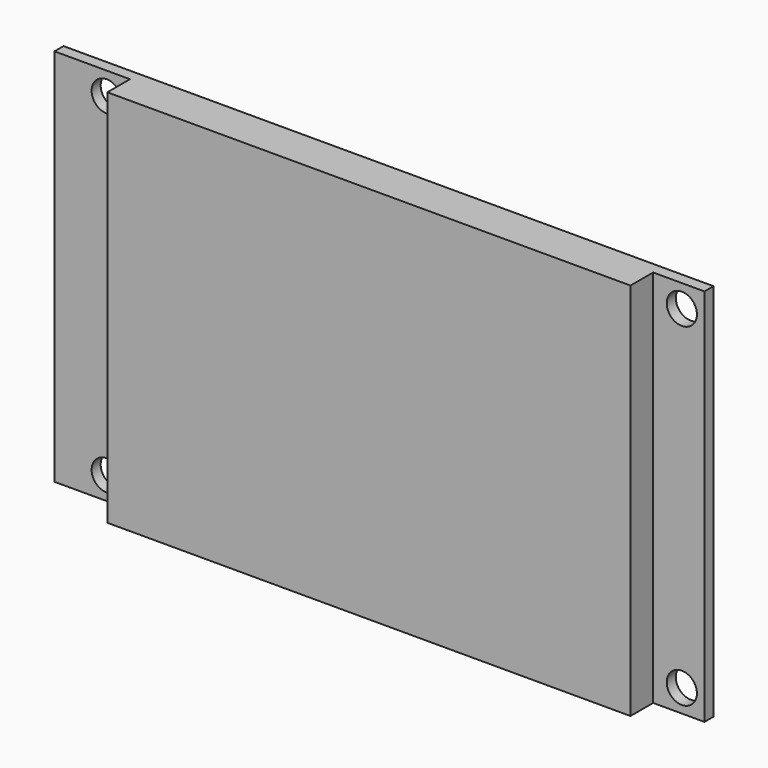
from build123d import *

# Parameters (mm, degrees)
F0_W     = 86.1
F0_H     = 50.2
F1_DEPTH = 1.5
F2_W     = 69.3
F2_H     = 50.2
F3_DEPTH = 3.75
F4_R     = 2
F5_DEPTH = 1.501


with BuildPart() as f1:
    # F0 (on Front) → F1 (new body)
    with BuildSketch(Plane.XZ):
        Rectangle(F0_W, F0_H)
    extrude(amount=-F1_DEPTH)

    # F2 (on Front) → F3 (join)
    with BuildSketch(Plane.XZ):
        with Locations((1.6, 0)):
            Rectangle(F2_W, F2_H)
    extrude(amount=F3_DEPTH)

    # F4 (on Front) → F5 (cut, through all)
    with BuildSketch(Plane.XZ):
        with Locations((-36.13, 22.1)):
            Circle(F4_R)
        with Locations((-36.13, -22.1)):
            Circle(F4_R)
        with Locations((40.05, 22.1)):
            Circle(F4_R)
        with Locations((40.05, -22.1)):
            Circle(F4_R)
    extrude(amount=-F5_DEPTH, mode=Mode.SUBTRACT)


solid = f1.part
